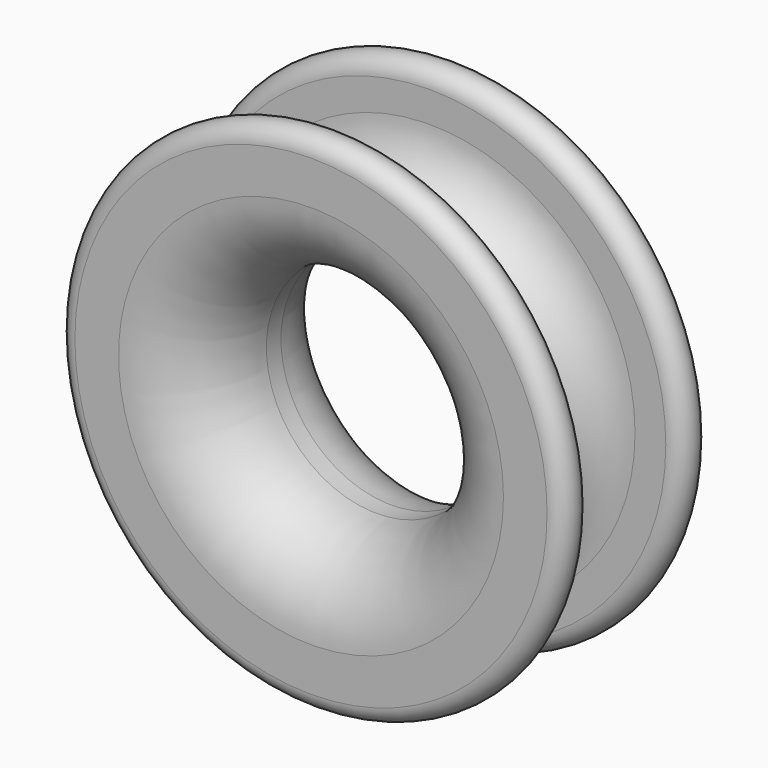
from build123d import *


with BuildPart() as f2:
    # F2: sweep along a path in F0
    with BuildLine(Plane.XZ) as f2_path:
        CenterArc((0, 0), 22.5, 0, 360)
    # F1 (on Right) → F2 (sweep)
    with BuildSketch(Plane.YZ):
        with BuildLine():
            ThreePointArc((6.26, 22.5), (0, 16.24), (-6.26, 22.5))
            Line((-6.26, 22.5), (-6.26, 25.869748))
            ThreePointArc((-6.26, 25.869748), (-8.13, 27.739748), (-10, 25.869748))
            Line((-10, 25.869748), (-10, 21.090393))
            ThreePointArc((-10, 21.090393), (-7.363961, 14.726432), (-1, 12.090393))
            Line((-1, 12.090393), (0, 12.090393))
            Line((0, 12.090393), (1, 12.090393))
            ThreePointArc((1, 12.090393), (7.363961, 14.726432), (10, 21.090393))
            Line((10, 21.090393), (10, 25.869748))
            ThreePointArc((10, 25.869748), (8.13, 27.739748), (6.26, 25.869748))
            Line((6.26, 25.869748), (6.26, 22.5))
        make_face()
    sweep(path=f2_path.line)


solid = f2.part
